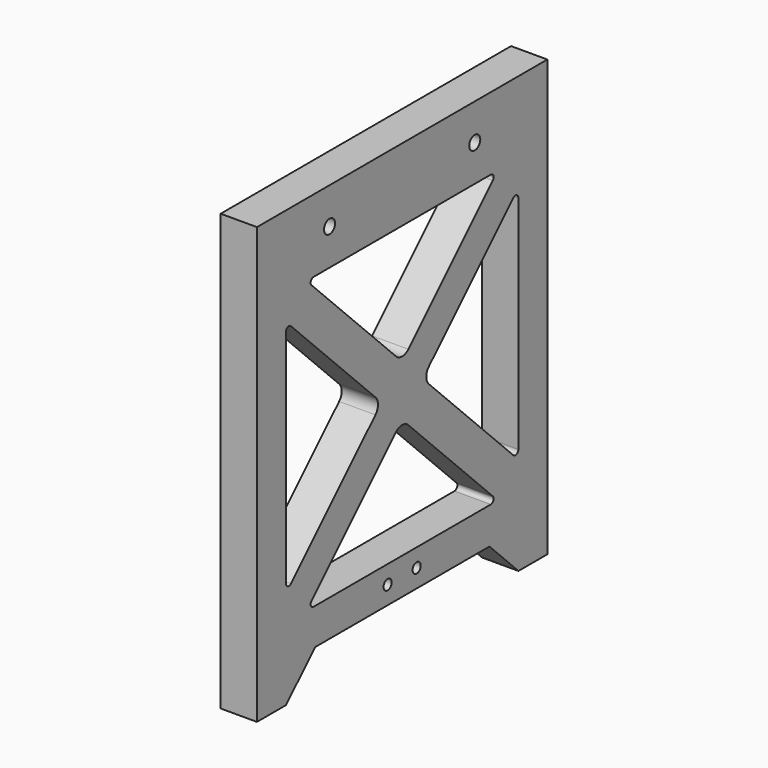
from build123d import *

# Parameters (mm, degrees)
F1_DEPTH       = 10
F2_R           = 1
F3_D           = 3.8
F3_CBORE_D     = 8.5
F3_CBORE_DEPTH = 2.5
F4_R           = 5
F5_DEPTH       = 1.2
F8_D           = 2.8
F8_CBORE_D     = 6
F8_CBORE_DEPTH = 2.5


with BuildPart() as f1:
    # F0 (on Right) → F1 (new body)
    with BuildSketch(Plane.YZ):
        Polygon((40.0512183458, -60), (50, -60), (50, 60), (-50, 60), (-50, -60), (-40, -60), (-29.9487816542, -50), (30.0512183458, -50), align=None)
        with BuildLine():
            Line((2.1213203436, -9.1923881554), (32.9289321881, -40))
            Line((32.9289321881, -40), (-32.9289321881, -40))
            Line((-32.9289321881, -40), (-2.1213203436, -9.1923881554))
            ThreePointArc((-2.1213203436, -9.1923881554), (0, -8.313708499), (2.1213203436, -9.1923881554))
        make_face(mode=Mode.SUBTRACT)
        with BuildLine():
            Line((-9.1923881554, -2.1213203436), (-40, -32.9289321881))
            Line((-40, -32.9289321881), (-40, 32.9289321881))
            Line((-40, 32.9289321881), (-9.1923881554, 2.1213203436))
            ThreePointArc((-9.1923881554, 2.1213203436), (-8.313708499, 0), (-9.1923881554, -2.1213203436))
        make_face(mode=Mode.SUBTRACT)
        with BuildLine():
            Line((40, 32.9289321881), (40, -32.9289321881))
            Line((40, -32.9289321881), (9.1923881554, -2.1213203436))
            ThreePointArc((9.1923881554, -2.1213203436), (8.313708499, 0), (9.1923881554, 2.1213203436))
            Line((9.1923881554, 2.1213203436), (40, 32.9289321881))
        make_face(mode=Mode.SUBTRACT)
        with BuildLine():
            Line((-32.9289321881, 40), (32.9289321881, 40))
            Line((32.9289321881, 40), (2.1213203436, 9.1923881554))
            ThreePointArc((2.1213203436, 9.1923881554), (0, 8.313708499), (-2.1213203436, 9.1923881554))
            Line((-2.1213203436, 9.1923881554), (-32.9289321881, 40))
        make_face(mode=Mode.SUBTRACT)
    extrude(amount=F1_DEPTH)

    # F2
    f2_edges = [f1.edges().sort_by_distance(p)[0] for p in [
        (5, -32.928932, 40),
        (5, 32.928932, 40),
        (5, -40, 32.928932),
        (5, -40, -32.928932),
        (5, -32.928932, -40),
        (5, 40, 32.928932),
        (5, 40, -32.928932),
        (5, 32.928932, -40),
    ]]
    fillet(f2_edges, radius=F2_R)

    # F3 (through all)
    with Locations(Plane(origin=(0, 0, 0), x_dir=(0, 1, 0), z_dir=(-1, 0, 0))):
        with Locations((-25, -50), (25, -50)):
            CounterBoreHole(F3_D / 2, F3_CBORE_D / 2, F3_CBORE_DEPTH)

    # F4 (on face) → F5 (cut)
    with BuildSketch(Plane(origin=(0, 0, 0), x_dir=(0, -1, 0), z_dir=(-1, 0, 0))):
        Circle(F4_R)
    extrude(amount=-F5_DEPTH, mode=Mode.SUBTRACT)

    # F8 (through all)
    with Locations(Plane(origin=(0, 0, 0), x_dir=(0, -1, 0), z_dir=(-1, 0, 0))):
        with Locations((-5, -45), (5, -45)):
            CounterBoreHole(F8_D / 2, F8_CBORE_D / 2, F8_CBORE_DEPTH)


solid = f1.part
